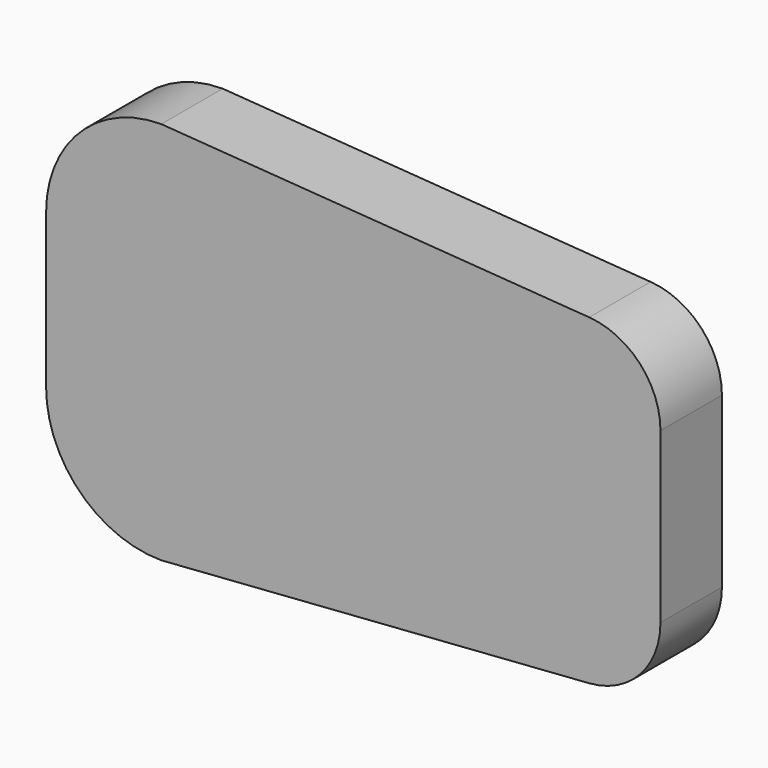
from build123d import *

# Parameters (mm, degrees)
F0_R     = 5
F0_R_2   = 15
F0_R_3   = 4
F1_DEPTH = 10


with BuildPart() as f1:
    # F0 (on Front) → F1 (new body)
    with BuildSketch(Plane.XZ):
        with BuildLine():
            Line((-40, 10), (-40, -10))
            ThreePointArc((-40, -10), (-35.6066017178, -20.6066017178), (-25, -25))
            Line((-25, -25), (30.7206543077, -20.973999066))
            ThreePointArc((30.7206543077, -20.973999066), (37.3214255127, -17.8115144029), (40, -11))
            Line((40, -11), (40, 11))
            ThreePointArc((40, 11), (37.3214255127, 17.8115144029), (30.7206543077, 20.973999066))
            Line((30.7206543077, 20.973999066), (-25, 25))
            ThreePointArc((-25, 25), (-35.6066017178, 20.6066017178), (-40, 10))
        make_face()
        with Locations((-25, -10)):
            Circle(F0_R, mode=Mode.SUBTRACT)
        with Locations((-25, 10)):
            Circle(F0_R, mode=Mode.SUBTRACT)
        Circle(F0_R_2, mode=Mode.SUBTRACT)
        with Locations((25, 0)):
            Circle(F0_R_3, mode=Mode.SUBTRACT)
        Circle(F0_R_2)
        with Locations((-25, 10)):
            Circle(F0_R)
        with Locations((-25, -10)):
            Circle(F0_R)
        with Locations((25, 0)):
            Circle(F0_R_3)
    extrude(amount=F1_DEPTH)


solid = f1.part
